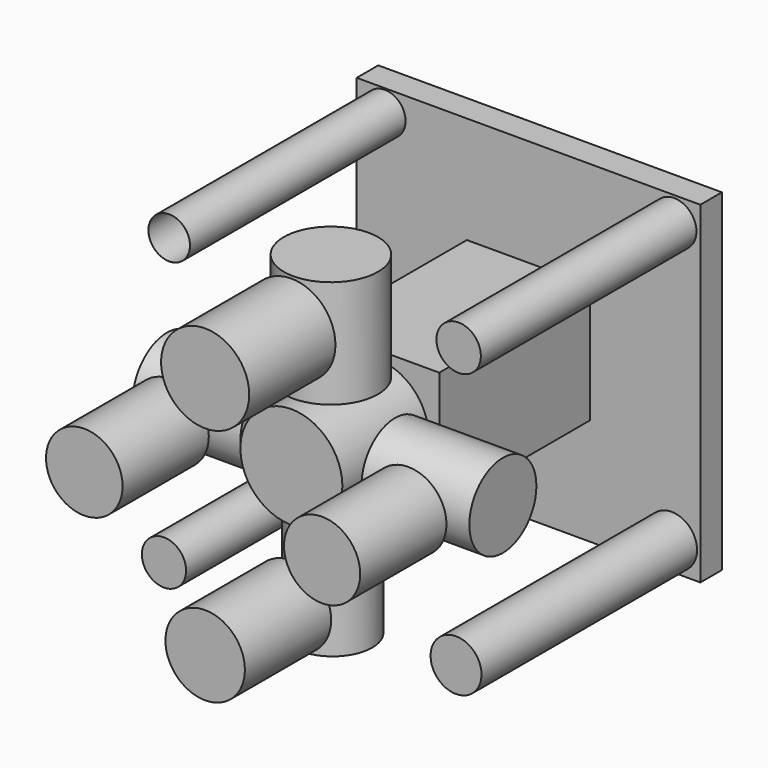
from build123d import *

# Parameters (mm, degrees)
F0_W      = 117.4075901508
F0_H      = 118.3015704155
F1_DEPTH  = 50.8
F2_R      = 46.9095853599
F3_DEPTH  = 50.8
F4_R      = 42.2632293301
F5_DEPTH  = 50.8
F7_W      = 54.8299401999
F7_H      = 113.5337427258
F8_DEPTH  = 50.8
F9_W      = 50.8
F9_H      = 113.5337427258
F10_DEPTH = 25.4
F12_W     = 116.2156388164
F12_H     = 111.7458119988
F14_DEPTH = 101.6
F13_R     = 40.0617685755
F15_DEPTH = 25.4
F16_R     = 48.047636449
F17_DEPTH = 101.6
F18_R     = 40.5801251775
F19_DEPTH = 101.6
F20_R     = 44.4135078244
F21_DEPTH = 101.6
F22_R     = 39.4988279677
F23_DEPTH = 101.6
F24_R     = 37.3922925892
F25_DEPTH = 101.6
F26_W     = 116.2156388164
F26_H     = 111.7458119988
F27_DEPTH = 101.6
F28_R     = 41.516224002
F29_DEPTH = 101.6
F30_R     = 36.077822792
F31_DEPTH = 101.6
F32_R     = 35.9250910759
F33_DEPTH = 101.6
F34_R     = 37.458616669
F35_DEPTH = 101.6
F36_W     = 323.9191174507
F36_H     = 313.4502470493
F36_W_2   = 116.2156388164
F36_H_2   = 111.7458119988
F37_DEPTH = 25.4
F38_W     = 116.2156388164
F38_H     = 111.7458119988
F39_DEPTH = 25.4
F40_R     = 19.5612370556
F41_DEPTH = 254
F42_W     = 323.9191174507
F42_H     = 313.4502470493
F42_W_2   = 116.2156388164
F42_H_2   = 111.7458119988
F42_R     = 19.5612370556
F42_R_2   = 20.9377364201
F44_DEPTH = 25.4
F45_R     = 19.599971861
F45_R_2   = 19.5612370556
F46_DEPTH = 254
F47_R     = 20.9377364201
F48_DEPTH = 254
F49_R     = 20.8378932338
F50_DEPTH = 254
F51_R     = 23.9852216025
F52_DEPTH = 254


with BuildPart() as f1:
    # F0 (on Front) → F1 (new body)
    with BuildSketch(Plane.XZ):
        Rectangle(F0_W, F0_H)
    extrude(amount=F1_DEPTH)

    # F2 (on face) → F3 (join)
    with BuildSketch(Plane(origin=(0, 0, 0), x_dir=(-1, 0, 0), z_dir=(0, 1, 0))):
        Circle(F2_R)
    extrude(amount=-F3_DEPTH)

    # F4 (on face) → F5 (join)
    with BuildSketch(Plane.XZ.offset(50.8)):
        Circle(F4_R)
    extrude(amount=F5_DEPTH)


with BuildPart() as f8:
    # F7 (on Front) → F8 (new body)
    with BuildSketch(Plane.XZ):
        Rectangle(F7_W, F7_H)
    extrude(amount=F8_DEPTH)

    # F9 (on face) → F10 (join)
    with BuildSketch(Plane.YZ.offset(27.4149700999)):
        with Locations((-25.4, 0)):
            Rectangle(F9_W, F9_H)
    extrude(amount=F10_DEPTH)


with BuildPart() as f14:
    # F12 (on Front) → F14 (new body)
    with BuildSketch(Plane.XZ):
        Rectangle(F12_W, F12_H)
    extrude(amount=F14_DEPTH)

    # F13 (on face) → F15 (join)
    with BuildSketch(Plane.XZ):
        Circle(F13_R)
    extrude(amount=F15_DEPTH)

    # F16 (on face) → F17 (join)
    with BuildSketch(Plane.XZ.offset(101.6)):
        Circle(F16_R)
    extrude(amount=F17_DEPTH)

    # F26 (on face) → F27 (join)
    with BuildSketch(Plane(origin=(0, 0, 0), x_dir=(-1, 0, 0), z_dir=(0, 1, 0))):
        Rectangle(F26_W, F26_H)
    extrude(amount=F27_DEPTH)

    # F42 (on face) → F44 (join)
    with BuildSketch(Plane.XZ.offset(-101.6)):
        Rectangle(F42_W, F42_H)
        Rectangle(F42_W_2, F42_H_2, mode=Mode.SUBTRACT)
        with Locations((-135.4794800282, 135.7873976231)):
            Circle(F42_R, mode=Mode.SUBTRACT)
        with Locations((137.3269408941, 133.3241313696)):
            Circle(F42_R_2, mode=Mode.SUBTRACT)
    extrude(amount=F44_DEPTH)

    # F45 (on face) → F46 (join)
    with BuildSketch(Plane.XZ.offset(-76.2)):
        with Locations((-135.4794800282, 135.7873976231)):
            Circle(F45_R)
        with Locations((-135.4794800282, 135.7873976231)):
            Circle(F45_R_2, mode=Mode.SUBTRACT)
    extrude(amount=F46_DEPTH)

    # F49 (on face) → F50 (join)
    with BuildSketch(Plane.XZ.offset(-76.2)):
        with Locations((-140.4060125351, -135.1715773344)):
            Circle(F49_R)
    extrude(amount=F50_DEPTH)

    # F51 (on face) → F52 (join)
    with BuildSketch(Plane.XZ.offset(-76.2)):
        with Locations((134.8636746407, -130.8608651161)):
            Circle(F51_R)
    extrude(amount=F52_DEPTH)


with BuildPart() as f19:
    # F18 (on face) → F19 (new body)
    with BuildSketch(Plane(origin=(-58.1078194082, 0, 0), x_dir=(0, -1, 0), z_dir=(-1, 0, 0))):
        with Locations((150.1721739769, -2.5329052005)):
            Circle(F18_R)
    extrude(amount=F19_DEPTH)


with BuildPart() as f21:
    # F20 (on face) → F21 (new body)
    with BuildSketch(Plane.XY.offset(55.8729059994)):
        with Locations((0, -156.6285938025)):
            Circle(F20_R)
    extrude(amount=F21_DEPTH)


with BuildPart() as f23:
    # F22 (on face) → F23 (new body)
    with BuildSketch(Plane.YZ.offset(58.1078194082)):
        with Locations((-153.6868661642, 0)):
            Circle(F22_R)
    extrude(amount=F23_DEPTH)


with BuildPart() as f25:
    # F24 (on face) → F25 (new body)
    with BuildSketch(Plane(origin=(0, 0, -55.8729059994), x_dir=(1, 0, 0), z_dir=(0, 0, -1))):
        with Locations((0, 154.6420156956)):
            Circle(F24_R)
    extrude(amount=F25_DEPTH)


with BuildPart() as f29:
    # F28 (on face) → F29 (new body)
    with BuildSketch(Plane.XZ.offset(203.2)):
        with Locations((0, 114.8496568203)):
            Circle(F28_R)
    extrude(amount=F29_DEPTH)


with BuildPart() as f31:
    # F30 (on face) → F31 (new body)
    with BuildSketch(Plane.XZ.offset(203.2)):
        with Locations((-113.9259338379, 0)):
            Circle(F30_R)
    extrude(amount=F31_DEPTH)


with BuildPart() as f33:
    # F32 (on face) → F33 (new body)
    with BuildSketch(Plane.XZ.offset(203.2)):
        with Locations((110.2310344577, 0)):
            Circle(F32_R)
    extrude(amount=F33_DEPTH)


with BuildPart() as f35:
    # F34 (on face) → F35 (new body)
    with BuildSketch(Plane.XZ.offset(203.2)):
        with Locations((0, -114.8496568203)):
            Circle(F34_R)
    extrude(amount=F35_DEPTH)


with BuildPart() as f37:
    # F36 (on face) → F37 (new body)
    with BuildSketch(Plane(origin=(0, 101.6, 0), x_dir=(-1, 0, 0), z_dir=(0, 1, 0))):
        Rectangle(F36_W, F36_H)
        Rectangle(F36_W_2, F36_H_2, mode=Mode.SUBTRACT)
    extrude(amount=F37_DEPTH)

    # F40 (on face) → F41 (join)
    with BuildSketch(Plane.XZ.offset(-101.6)):
        with Locations((-135.4794800282, 135.7873976231)):
            Circle(F40_R)
    extrude(amount=F41_DEPTH)


with BuildPart() as f39:
    # F38 (on face) → F39 (new body)
    with BuildSketch(Plane(origin=(0, 101.6, 0), x_dir=(-1, 0, 0), z_dir=(0, 1, 0))):
        Rectangle(F38_W, F38_H)
    extrude(amount=F39_DEPTH)


with BuildPart() as f48:
    # F47 (on face) → F48 (new body)
    with BuildSketch(Plane.XZ.offset(-76.2)):
        with Locations((137.3269408941, 133.3241313696)):
            Circle(F47_R)
    extrude(amount=F48_DEPTH)


solid = Compound([f14.part, f19.part, f21.part, f23.part, f25.part, f29.part, f31.part, f33.part, f35.part, f39.part, f48.part])
